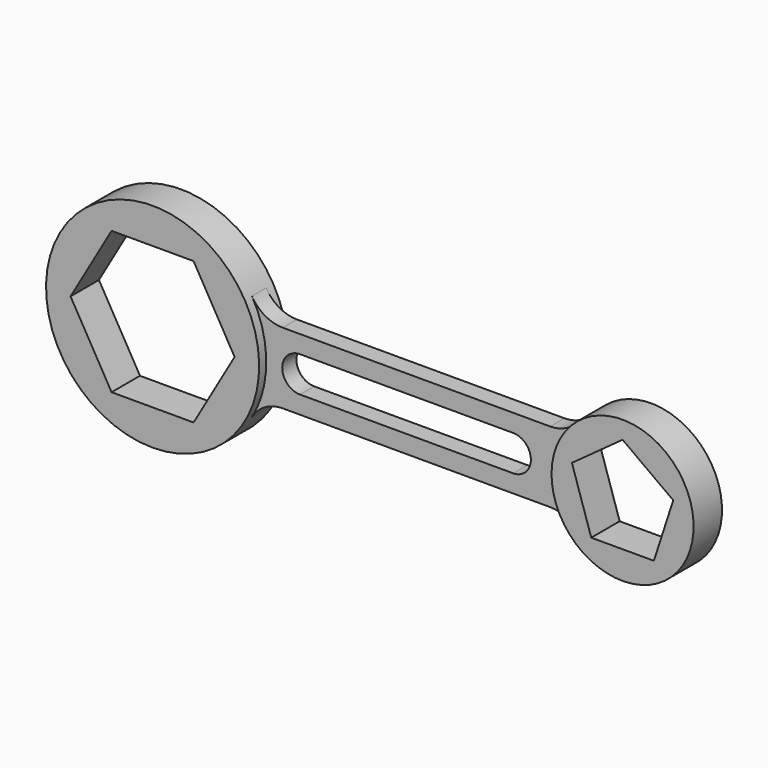
from build123d import *

# Parameters (mm, degrees)
F1_DEPTH = 127
F2_DEPTH = 63.5


with BuildPart() as f1:
    # F0 (on Front) → F1 (new body, symmetric)
    with BuildSketch(Plane.XZ):
        with BuildLine():
            ThreePointArc((659.9113576837, -381), (736.0354796323, -197.2201123681), (762, 0))
            ThreePointArc((762, 0), (736.0354796323, 197.2201123681), (659.9113576837, 381))
            ThreePointArc((659.9113576837, 381), (-762, 0), (659.9113576837, -381))
        make_face()
        Polygon((-586.5878734967, 0), (-293.2939367483, 508), (293.2939367483, 508), (586.5878734967, 0), (293.2939367483, -508), (-293.2939367483, -508), align=None, mode=Mode.SUBTRACT)
    extrude(amount=F1_DEPTH, both=True)


with BuildPart() as f1b:
    # F0 (on Front) → F1, piece 2 (new body, symmetric)
    with BuildSketch(Plane.XZ):
        with BuildLine():
            ThreePointArc((3868.951848319, 0), (3542.2174699237, 474.5595583531), (2982.311004129, 338.6666666667))
            ThreePointArc((2982.311004129, 338.6666666667), (2852.951848319, 0), (2982.311004129, -338.6666666667))
            ThreePointArc((2982.311004129, -338.6666666667), (3542.2174699237, -474.5595583531), (3868.951848319, 0))
        make_face()
        Polygon((3723.3043810274, 117.7354748569), (3584.8980294424, -308.2354748569), (3137.0056671955, -308.2354748569), (2998.5993156105, 117.7354748569), (3360.951848319, 381), align=None, mode=Mode.SUBTRACT)
    extrude(amount=F1_DEPTH, both=True)


with BuildPart() as f2:
    # F0 (on Front) → F2 (new body, symmetric)
    with BuildSketch(Plane.XZ):
        with BuildLine():
            ThreePointArc((659.9113576837, 381), (736.0354796323, 197.2201123681), (762, 0))
            ThreePointArc((762, 0), (736.0354796323, -197.2201123681), (659.9113576837, -381))
            ThreePointArc((659.9113576837, -381), (752.881810245, -288.0295474388), (879.881810245, -254))
            Line((879.881810245, -254), (2792.990582034, -254))
            ThreePointArc((2792.990582034, -254), (2896.6856478119, -276.1307839895), (2982.311004129, -338.6666666667))
            ThreePointArc((2982.311004129, -338.6666666667), (2852.951848319, 0), (2982.311004129, 338.6666666667))
            ThreePointArc((2982.311004129, 338.6666666667), (2896.6856478119, 276.1307839895), (2792.990582034, 254))
            Line((2792.990582034, 254), (879.881810245, 254))
            ThreePointArc((879.881810245, 254), (752.881810245, 288.0295474388), (659.9113576837, 381))
        make_face()
        with BuildLine():
            Line((1003.3791101256, 127), (1765.3791101256, 127))
            Line((1765.3791101256, 127), (2527.3791101256, 127))
            ThreePointArc((2527.3791101256, 127), (2654.3791101256, 0), (2527.3791101256, -127))
            Line((2527.3791101256, -127), (1003.3791101256, -127))
            ThreePointArc((1003.3791101256, -127), (876.3791101256, 0), (1003.3791101256, 127))
        make_face(mode=Mode.SUBTRACT)
    extrude(amount=F2_DEPTH, both=True)


solid = Compound([f1.part, f1b.part, f2.part])
